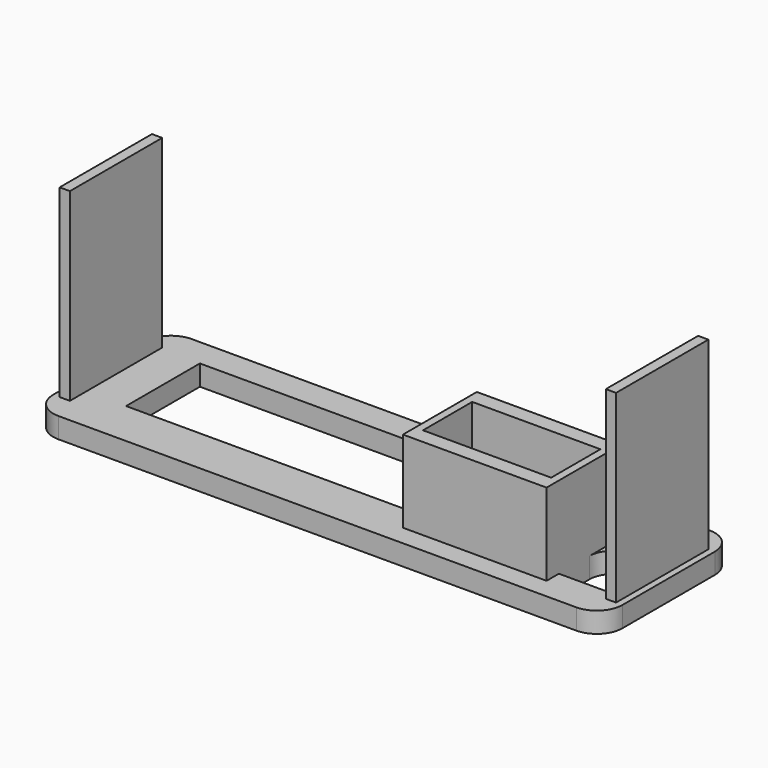
from build123d import *

# Parameters (mm, degrees)
F0_W     = 2
F0_H     = 22.5
F0_W_2   = 55
F0_H_2   = 18
F1_DEPTH = 4
F0_W_3   = 25
F0_H_3   = 12
F2_DEPTH = 20
F3_DEPTH = 40


with BuildPart() as f1:
    # F0 (on Top) → F1 (new body)
    with BuildSketch(Plane.XY):
        with BuildLine():
            Line((54.401939, 14.236366), (-46.598061, 14.236366))
            ThreePointArc((-46.598061, 14.236366), (-50.133595, 12.7719), (-51.598061, 9.236366))
            Line((-51.598061, 9.236366), (-51.598061, -13.263634))
            ThreePointArc((-51.598061, -13.263634), (-50.133595, -16.799168), (-46.598061, -18.263634))
            Line((-46.598061, -18.263634), (54.401939, -18.263634))
            ThreePointArc((54.401939, -18.263634), (57.937472, -16.799168), (59.401939, -13.263634))
            Line((59.401939, -13.263634), (59.401939, 9.236366))
            ThreePointArc((59.401939, 9.236366), (57.937472, 12.7719), (54.401939, 14.236366))
        make_face()
        with Locations((-49.348061, -2.013634)):
            Rectangle(F0_W, F0_H, mode=Mode.SUBTRACT)
        with Locations((-13.098061, -0.263634)):
            Rectangle(F0_W_2, F0_H_2, mode=Mode.SUBTRACT)
        with BuildLine():
            Line((54.401939, -11.263634), (45.401939, -11.263634))
            Line((45.401939, -11.263634), (45.401939, -14.263634))
            Line((45.401939, -14.263634), (18.901939, -14.263634))
            Line((18.901939, -14.263634), (17.401939, -14.263634))
            Line((17.401939, -14.263634), (17.401939, 3.736366))
            Line((17.401939, 3.736366), (29.901939, 3.736366))
            Line((29.901939, 3.736366), (29.901939, 12.736366))
            Line((29.901939, 12.736366), (43.901939, 12.736366))
            Line((43.901939, 12.736366), (43.901939, 3.736366))
            Line((43.901939, 3.736366), (45.401939, 3.736366))
            Line((45.401939, 3.736366), (45.401939, 0.736366))
            Line((45.401939, 0.736366), (45.401939, -3.763634))
            ThreePointArc((45.401939, -3.763634), (46.719958, -0.581654), (49.901939, 0.736366))
            ThreePointArc((49.901939, 0.736366), (53.083919, -0.581654), (54.401939, -3.763634))
            Line((54.401939, -3.763634), (54.401939, -11.263634))
        make_face(mode=Mode.SUBTRACT)
        with Locations((57.151939, -2.013634)):
            Rectangle(F0_W, F0_H, mode=Mode.SUBTRACT)
    extrude(amount=F1_DEPTH)

    # F0 (on Top) → F2 (join)
    with BuildSketch(Plane.XY):
        Polygon((45.401939, -14.263634), (45.401939, -11.263634), (45.401939, -3.763634), (45.401939, 0.736366), (45.401939, 3.736366), (43.901939, 3.736366), (29.901939, 3.736366), (17.401939, 3.736366), (17.401939, -14.263634), (18.901939, -14.263634), align=None)
        with Locations((31.401939, -5.263634)):
            Rectangle(F0_W_3, F0_H_3, mode=Mode.SUBTRACT)
    extrude(amount=F2_DEPTH)

    # F0 (on Top) → F3 (join)
    with BuildSketch(Plane.XY):
        with Locations((57.151939, -2.013634)):
            Rectangle(F0_W, F0_H)
        with Locations((-49.348061, -2.013634)):
            Rectangle(F0_W, F0_H)
    extrude(amount=F3_DEPTH)


solid = f1.part
